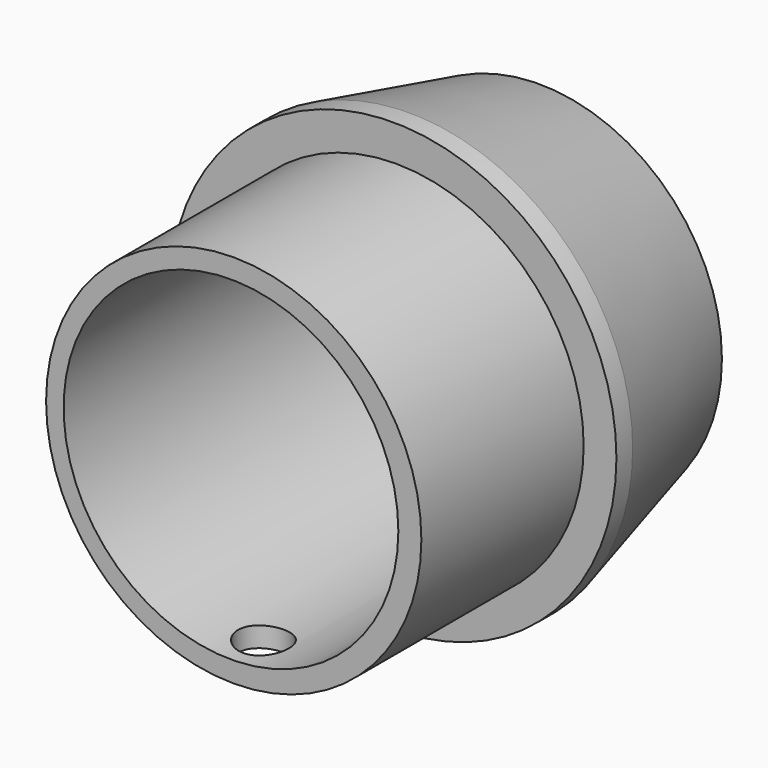
from build123d import *

# Parameters (mm, degrees)
SKETCH010_R      = 11
SKETCH010_R_2    = 8.25
PAD005_DEPTH     = 19
SKETCH011_R      = 11.25
SKETCH011_R_2    = 9.25
POCKET005_DEPTH  = 10
CHAMFER003_SIZE2 = 2
CHAMFER003_SIZE  = 8
SKETCH012_R      = 1.25
HOLE_DEPTH       = 25


with BuildPart() as part:
    # Sketch010 → Pad005 (new body)
    with BuildSketch(Plane.XZ.offset(-10)):
        with Locations((0, 15)):
            Circle(SKETCH010_R)
        with Locations((0, 15)):
            Circle(SKETCH010_R_2, mode=Mode.SUBTRACT)
    extrude(amount=PAD005_DEPTH)

    # Sketch011 → Pocket005 (cut)
    with BuildSketch(Plane.XZ.offset(9)):
        with Locations((0.134772, 15)):
            Circle(SKETCH011_R)
        with Locations((0.134772, 15)):
            Circle(SKETCH011_R_2, mode=Mode.SUBTRACT)
    extrude(amount=-POCKET005_DEPTH, mode=Mode.SUBTRACT)

    # Chamfer003
    chamfer003_edges = [part.edges().sort_by_distance(p)[0] for p in [
        (-11, 10, 15),
    ]]
    chamfer003_side = part.faces().sort_by_distance((-11, 5.5, 15))[0]
    chamfer(chamfer003_edges, length=CHAMFER003_SIZE, length2=CHAMFER003_SIZE2, reference=chamfer003_side)

    # Sketch012 → Hole (cut)
    with BuildSketch(Plane.XY.offset(7)):
        with Locations((0.028156, -7.033275)):
            Circle(SKETCH012_R)
    extrude(amount=-HOLE_DEPTH, mode=Mode.SUBTRACT)


with BuildPart() as part_1:
    # Body006 placement: moved
    add(part.part.moved(Location((0, -1, 0))))


solid = part_1.part
